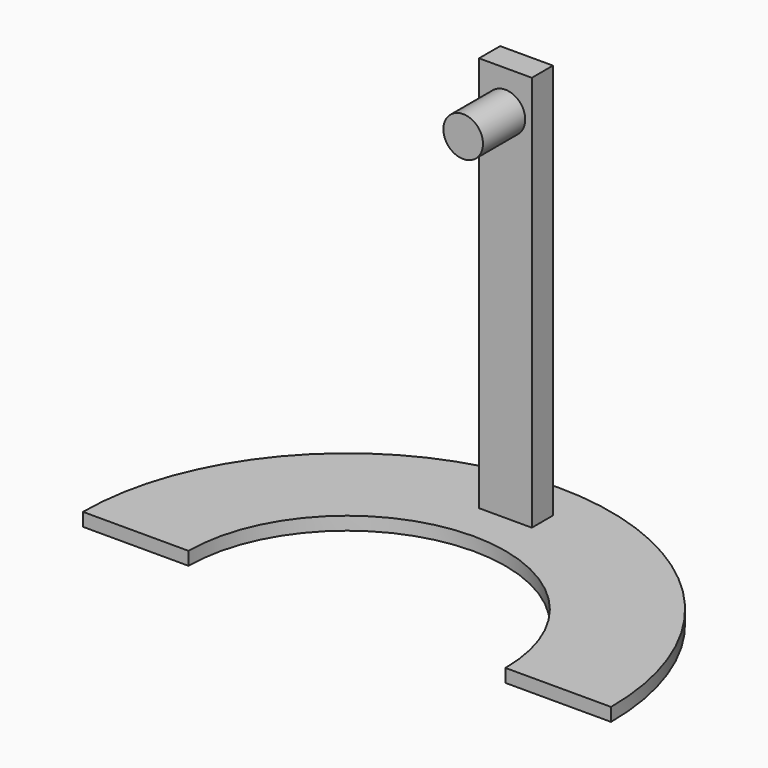
from build123d import *

# Parameters (mm, degrees)
F1_DEPTH = 5
F2_W     = 20
F2_H     = 10
F3_DEPTH = 150
F4_R     = 7.5
F5_DEPTH = 20


with BuildPart() as f1:
    # F0 (on Top) → F1 (new body)
    with BuildSketch(Plane.XY):
        with BuildLine():
            Line((60, 0), (100, 0))
            ThreePointArc((100, 0), (0, 100), (-100, 0))
            Line((-100, 0), (-60, 0))
            ThreePointArc((-60, 0), (0, 60), (60, 0))
        make_face()
    extrude(amount=F1_DEPTH)

    # F2 (on face) → F3 (join)
    with BuildSketch(Plane.XY.offset(5)):
        with Locations((0, 80)):
            Rectangle(F2_W, F2_H)
    extrude(amount=F3_DEPTH)


with BuildPart() as f5:
    # F4 (on face) → F5 (new body)
    with BuildSketch(Plane.XZ.offset(-75)):
        with Locations((0, 140.282258)):
            Circle(F4_R)
    extrude(amount=F5_DEPTH)


solid = Compound([f1.part, f5.part])
